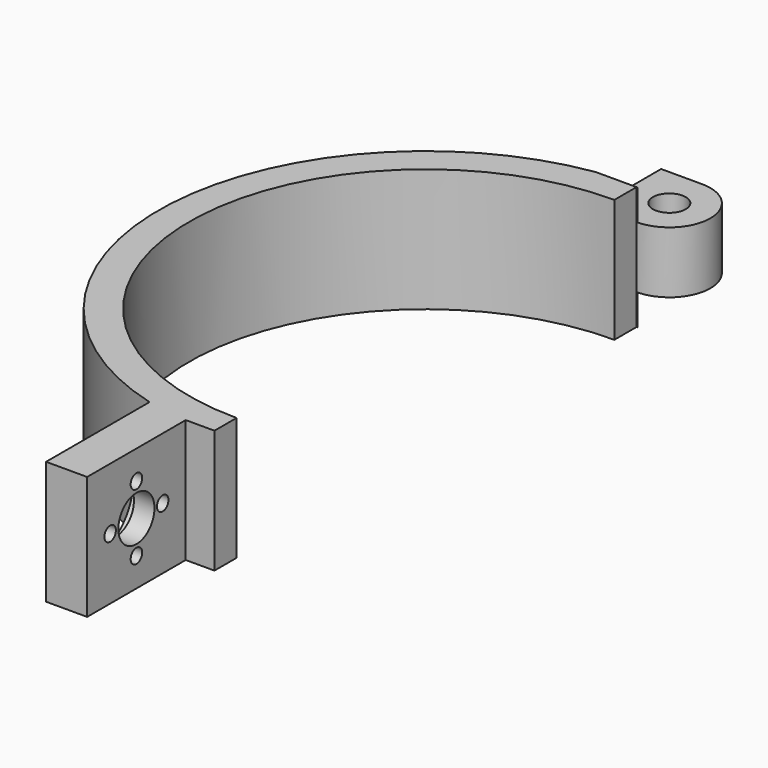
from build123d import *

# Parameters (mm, degrees)
SKETCH_R        = 4
PAD_DEPTH       = 30
SKETCH001_R     = 5.5
POCKET_DEPTH    = 10
SKETCH002_R     = 11.5
POCKET001_DEPTH = 5
SKETCH003_R     = 1.75
POCKET002_DEPTH = 22.001
SKETCH005_W     = 20
SKETCH005_H     = 7.5
POCKET004_DEPTH = 20.001


with BuildPart() as body:
    # Sketch → Pad (new body)
    with BuildSketch(Plane.XY):
        with BuildLine():
            ThreePointArc((0, -57.5), (57.5, 0), (0, 57.5))
            Line((0, 64.226163), (0, 57.5))
            ThreePointArc((0, 84.226163), (-10, 74.226163), (0, 64.226163))
            Line((0, 84.226163), (10, 84.226163))
            Line((10, 84.226163), (10, 64.226163))
            ThreePointArc((17, -62.737549), (64.901433, 3.578267), (10, 64.226163))
            Line((17, -62.737549), (17, -94.226163))
            Line((17, -94.226163), (7, -94.226163))
            Line((7, -94.226163), (7, -64.226163))
            Line((7, -64.226163), (0, -64.226163))
            Line((0, -57.5), (0, -64.226163))
        make_face()
        with Locations((0, 74.226163)):
            Circle(SKETCH_R, mode=Mode.SUBTRACT)
    extrude(amount=PAD_DEPTH)

    # Sketch001 (on Face9 of Pad) → Pocket (cut)
    with BuildSketch(Plane(origin=(7, 0, 0), x_dir=(0, -1, 0), z_dir=(-1, 0, 0))):
        with Locations((79.23, 15)):
            Circle(SKETCH001_R)
    extrude(amount=-POCKET_DEPTH, mode=Mode.SUBTRACT)

    # Sketch002 (on Face11 of Pocket) → Pocket001 (cut)
    with BuildSketch(Plane.YZ.offset(17)):
        with Locations((-79.23, 15)):
            Circle(SKETCH002_R)
    extrude(amount=-POCKET001_DEPTH, mode=Mode.SUBTRACT)

    # Sketch003 (on Face17 of Pocket001) → Pocket002 (cut, through all)
    with BuildSketch(Plane.YZ.offset(12)):
        with Locations((-87.23, 15)):
            Circle(SKETCH003_R)
        with Locations((-79.23, 23)):
            Circle(SKETCH003_R)
        with Locations((-71.23, 15)):
            Circle(SKETCH003_R)
        with Locations((-79.23, 7)):
            Circle(SKETCH003_R)
    extrude(amount=-POCKET002_DEPTH, mode=Mode.SUBTRACT)

    # Sketch005 (on Face9 of Pocket002) → Pocket004 (cut, through all)
    with BuildSketch(Plane.YZ.offset(10)):
        with Locations((74.23, 26.25)):
            Rectangle(SKETCH005_W, SKETCH005_H)
        with Locations((74.23, 3.75)):
            Rectangle(SKETCH005_W, SKETCH005_H)
    extrude(amount=-POCKET004_DEPTH, mode=Mode.SUBTRACT)


with BuildPart() as part_mirroring:
    # Part__Mirroring: instance of Body
    add(body.part.mirror(Plane(origin=(0, 0, 0), x_dir=(0, -1, 0), z_dir=(1, 0, 0))))


solid = part_mirroring.part
